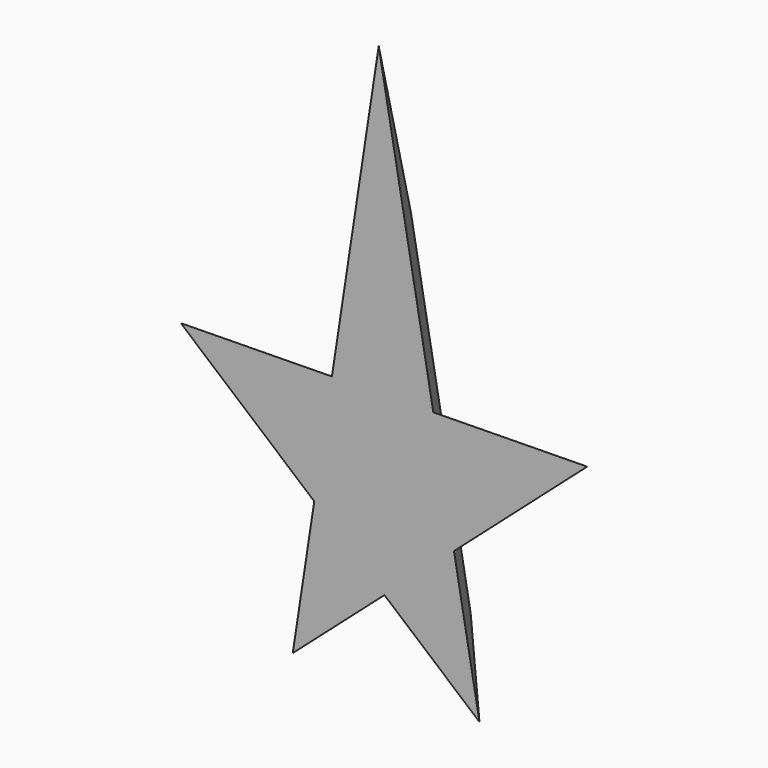
from build123d import *

# Parameters (mm, degrees)
F1_DEPTH = 1.778
F1_TAPER = -35


with BuildPart() as f1:
    # F0 (on Front) → F1 (new body)
    with BuildSketch(Plane.XZ):
        Polygon((-6.1352358275, -8.3588542207), (-1.8459017658, -12.0062472119), (-1.2776682874, -8.2893569829), align=None)
        Polygon((0.1084052976, -13.6680729834), (2.0481923818, -11.9556047751), (1.3844956534, -8.251269393), (-1.2776682874, -8.2893569829), (-1.8459017658, -12.0062472119), align=None)
        Polygon((1.3844956534, -8.251269393), (2.0481923818, -11.9556047751), (6.3243093207, -8.1805954597), align=None)
        Polygon((-1.2776682874, -8.2893569829), (1.3844956534, -8.251269393), (-0.0488290638, -0.2513573295), align=None)
        Polygon((0.1084052976, -13.6680729834), (2.7588090784, -15.9218177455), (2.0481923818, -11.9556047751), align=None)
        Polygon((-2.444509238, -15.9218177455), (0.1084052976, -13.6680729834), (-1.8459017658, -12.0062472119), align=None)
    extrude(amount=F1_DEPTH, taper=F1_TAPER)


solid = f1.part
